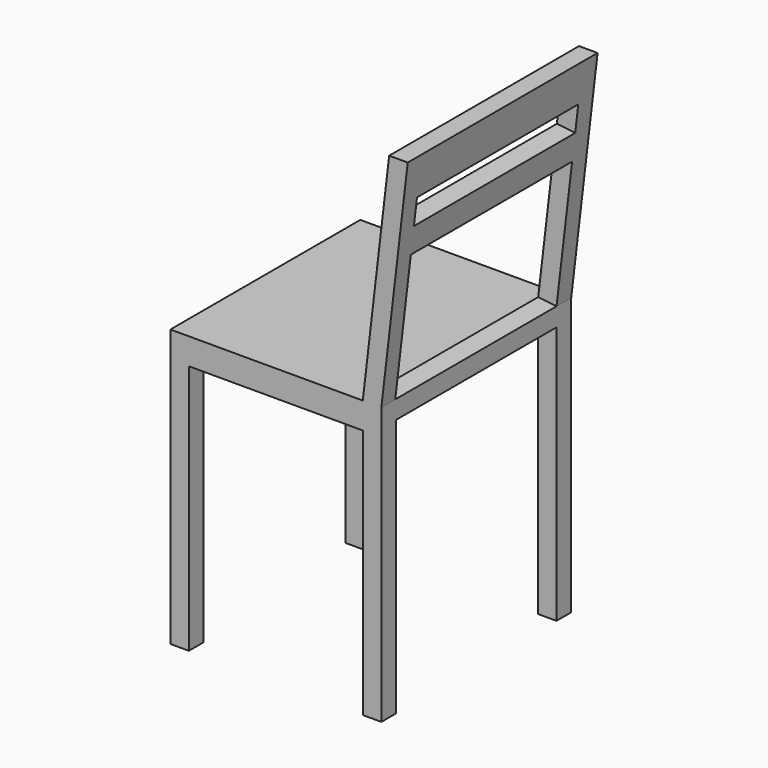
from build123d import *

# Parameters (mm, degrees)
F0_W     = 450
F0_H     = 450
F1_DEPTH = 950
F2_W     = 329.7586178293
F2_H     = 475
F2_W_2   = 50
F2_H_2   = 50
F3_DEPTH = 450.001
F4_W     = 380
F4_H     = 490
F5_DEPTH = 450.001
F6_W     = 382.2745978832
F6_H     = 50
F6_H_2   = 252.9310692156
F7_DEPTH = 446.9187719453


with BuildPart() as f1:
    # F0 (on Top) → F1 (new body)
    with BuildSketch(Plane.XY):
        Rectangle(F0_W, F0_H)
    extrude(amount=F1_DEPTH)

    # F2 (on face) → F3 (cut, through all)
    with BuildSketch(Plane.XZ.offset(225)):
        Polygon((-225, 950), (-225, 525), (139.7586178293, 525), (189.7586178293, 950), align=None)
        with Locations((-25.1206910853, 237.5)):
            Rectangle(F2_W, F2_H)
        Polygon((225, 950), (175, 525), (225, 525), align=None)
        with Locations((200, 500)):
            Rectangle(F2_W_2, F2_H_2)
        with Locations((200, 237.5)):
            Rectangle(F2_W_2, F2_H)
    extrude(amount=-F3_DEPTH, mode=Mode.SUBTRACT)

    # F4 (on face) → F5 (cut, through all)
    with BuildSketch(Plane(origin=(-225, 0, 0), x_dir=(0, -1, 0), z_dir=(-1, 0, 0))):
        with Locations((0, 245)):
            Rectangle(F4_W, F4_H)
    extrude(amount=-F5_DEPTH, mode=Mode.SUBTRACT)

    # F6 (on face) → F7 (cut, through all)
    with BuildSketch(Plane(origin=(111.6894197952, 0, -13.1399317406), x_dir=(0, 1, 0), z_dir=(0.9931506043, 0, -0.1168412476))):
        with Locations((-0.9801834822, 869.7823548094)):
            Rectangle(F6_W, F6_H)
        with Locations((-0.9801834822, 668.3168202016)):
            Rectangle(F6_W, F6_H_2)
    extrude(amount=-F7_DEPTH, mode=Mode.SUBTRACT)


solid = f1.part
